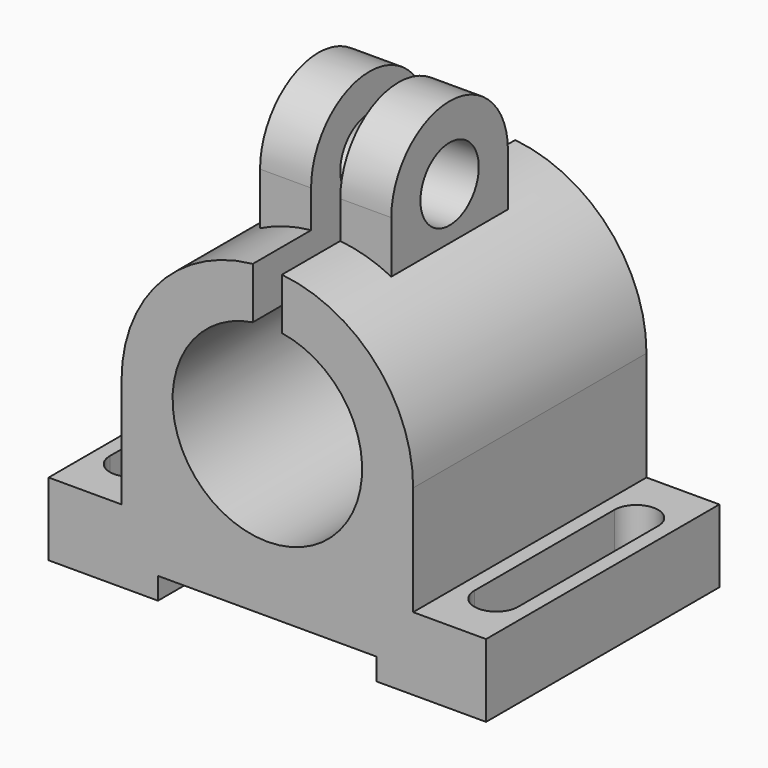
from build123d import *

# Parameters (mm, degrees)
SKETCH_W        = 60
SKETCH_H        = 40
PAD_DEPTH       = 10
PAD001_DEPTH    = 20
PAD002_DEPTH    = 9
SKETCH003_R     = 5
POCKET_DEPTH    = 39.001
POCKET001_DEPTH = 40.001
SKETCH005_W     = 30
SKETCH005_H     = 3
POCKET002_DEPTH = 40.001
POCKET003_DEPTH = 10.001
POCKET004_DEPTH = 10.001


with BuildPart() as part:
    # Sketch → Pad (new body)
    with BuildSketch(Plane.XY):
        Rectangle(SKETCH_W, SKETCH_H)
    extrude(amount=PAD_DEPTH)

    # Sketch001 → Pad001 (join, symmetric)
    with BuildSketch(Plane.XZ):
        with BuildLine():
            Line((20, 25), (20, 10))
            Line((20, 10), (-20, 10))
            Line((-20, 10), (-20, 25))
            ThreePointArc((20, 25), (0, 45), (-20, 25))
        make_face()
    extrude(amount=PAD001_DEPTH, both=True)

    # Sketch002 → Pad002 (join, symmetric)
    with BuildSketch(Plane.YZ):
        with BuildLine():
            Line((-10, 32.7), (-10, 50))
            ThreePointArc((10, 50), (0, 60), (-10, 50))
            Line((10, 50), (10, 32.7))
            Line((10, 32.7), (-10, 32.7))
        make_face()
    extrude(amount=PAD002_DEPTH, both=True)

    # Sketch003 (on Face13 of Pad002) → Pocket (cut, through all)
    with BuildSketch(Plane(origin=(-9, 0, 0), x_dir=(0, -1, 0), z_dir=(-1, 0, 0))):
        with Locations((0, 50)):
            Circle(SKETCH003_R)
    extrude(amount=-POCKET_DEPTH, mode=Mode.SUBTRACT)

    # Sketch004 (on Face12 of Pocket) → Pocket001 (cut, through all)
    with BuildSketch(Plane.XZ.offset(20)):
        with BuildLine():
            ThreePointArc((-2, 37.845233), (0, 12), (2, 37.845233))
            Line((2, 70.635233), (2, 37.845233))
            Line((-2, 70.635233), (2, 70.635233))
            Line((-2, 37.845233), (-2, 70.635233))
        make_face()
    extrude(amount=-POCKET001_DEPTH, mode=Mode.SUBTRACT)

    # Sketch005 (on Face8 of Pocket001) → Pocket002 (cut, through all)
    with BuildSketch(Plane.XZ.offset(20)):
        with Locations((0, 1.5)):
            Rectangle(SKETCH005_W, SKETCH005_H)
    extrude(amount=-POCKET002_DEPTH, mode=Mode.SUBTRACT)

    # Sketch006 (on Face8 of Pocket002) → Pocket003 (cut, through all)
    with BuildSketch(Plane.XY.offset(10)):
        with BuildLine():
            Line((22, 12.000007), (22, -12.000007))
            ThreePointArc((22, -12.000007), (25, -15.000007), (28, -12.000007))
            Line((28, -12.000007), (28, 11.999993))
            ThreePointArc((28, 11.999993), (25.000007, 14.999993), (22, 12.000007))
        make_face()
    extrude(amount=-POCKET003_DEPTH, mode=Mode.SUBTRACT)

    # Sketch007 (on Face10 of Pocket003) → Pocket004 (cut, through all)
    with BuildSketch(Plane.XY.offset(10)):
        with BuildLine():
            Line((-28, 11.999986), (-28, -12))
            ThreePointArc((-28, -12), (-25, -15), (-22, -12))
            Line((-22, -12), (-22, 12))
            ThreePointArc((-22, 12), (-25.000007, 15), (-28, 11.999986))
        make_face()
    extrude(amount=-POCKET004_DEPTH, mode=Mode.SUBTRACT)


solid = part.part
